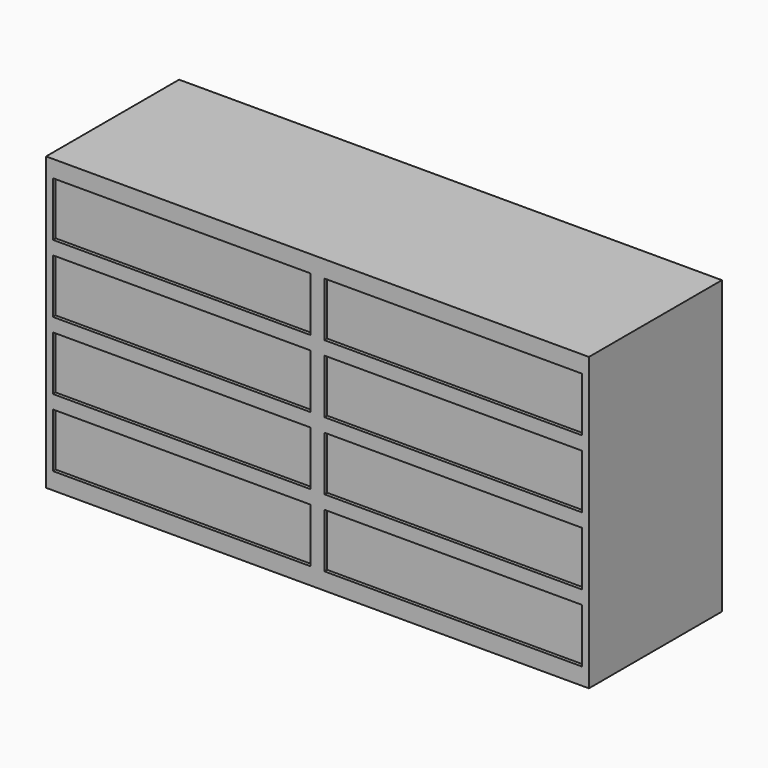
from build123d import *

# Parameters (mm, degrees)
F0_W     = 1600
F0_H     = 490
F1_DEPTH = 860
F2_W     = 760
F2_H     = 160
F3_DEPTH = 10


with BuildPart() as f1:
    # F0 (on Top) → F1 (new body)
    with BuildSketch(Plane.XY):
        Rectangle(F0_W, F0_H)
    extrude(amount=F1_DEPTH)

    # F2 (on face) → F3 (cut)
    with BuildSketch(Plane.XZ.offset(245)):
        with Locations((400, 730)):
            Rectangle(F2_W, F2_H)
        with Locations((-400, 730)):
            Rectangle(F2_W, F2_H)
        with Locations((-400, 530)):
            Rectangle(F2_W, F2_H)
        with Locations((400, 530)):
            Rectangle(F2_W, F2_H)
        with Locations((400, 330)):
            Rectangle(F2_W, F2_H)
        with Locations((-400, 330)):
            Rectangle(F2_W, F2_H)
        with Locations((-400, 130)):
            Rectangle(F2_W, F2_H)
        with Locations((400, 130)):
            Rectangle(F2_W, F2_H)
    extrude(amount=-F3_DEPTH, mode=Mode.SUBTRACT)


solid = f1.part
